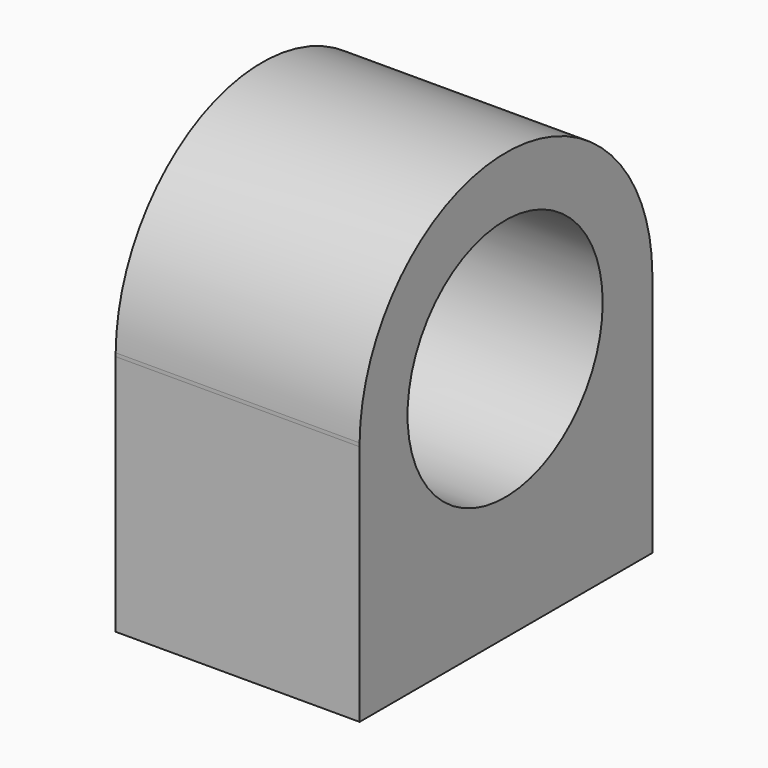
from build123d import *

# Parameters (mm, degrees)
F0_R     = 12.7
F1_DEPTH = 25.4
F2_R     = 4.350935
F2_R_2   = 4.561345
F3_DEPTH = 12.7


with BuildPart() as f1:
    # F0 (on Right) → F1 (new body)
    with BuildSketch(Plane.YZ):
        with BuildLine():
            Line((19.161508, 0), (19.161508, -0.358008))
            ThreePointArc((19.161508, -0.358008), (19.162349, -0.179004), (19.161508, 0))
        make_face()
        with BuildLine():
            Line((19.161508, -25.579004), (19.161508, -0.358008))
            Line((19.161508, -0.358008), (19.161508, 0))
            ThreePointArc((19.161508, 0), (0.112349, 18.870996), (-18.93681, 0))
            Line((-18.93681, 0), (-18.93681, -0.358008))
            Line((-18.93681, -0.358008), (-18.93681, -25.579004))
            Line((-18.93681, -25.579004), (19.161508, -25.579004))
        make_face()
        Circle(F0_R, mode=Mode.SUBTRACT)
        with BuildLine():
            Line((-18.93681, -0.358008), (-18.93681, 0))
            ThreePointArc((-18.93681, 0), (-18.937651, -0.179004), (-18.93681, -0.358008))
        make_face()
    extrude(amount=F1_DEPTH)

    # F2 (on face) → F3 (cut)
    with BuildSketch(Plane(origin=(0, 0, -25.579004), x_dir=(1, 0, 0), z_dir=(0, 0, -1))):
        with Locations((12.7, 12.58681)):
            Circle(F2_R)
        with Locations((12.7, -12.811508)):
            Circle(F2_R_2)
    extrude(amount=-F3_DEPTH, mode=Mode.SUBTRACT)


solid = f1.part
